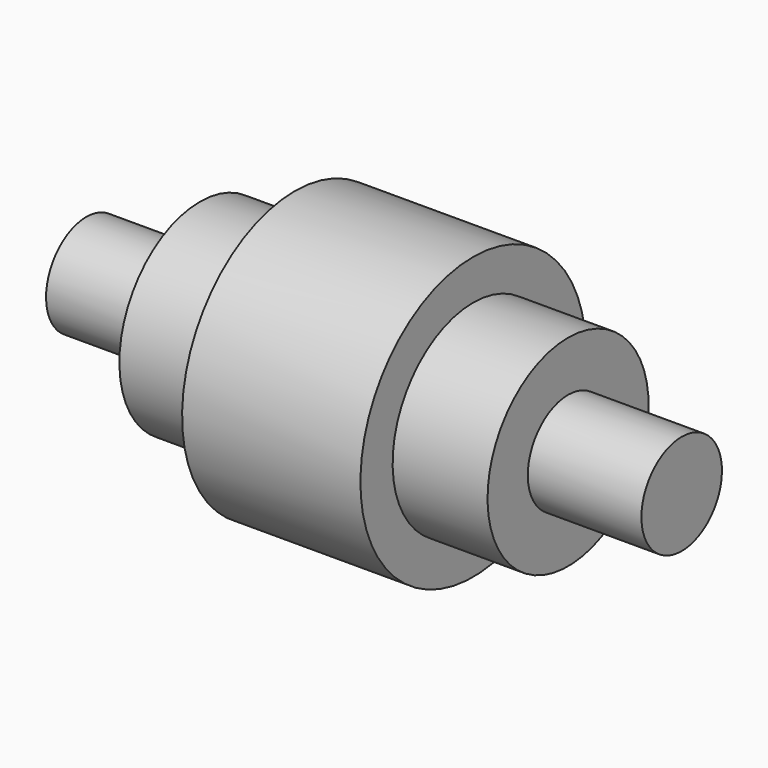
from build123d import *

# Parameters (mm, degrees)
F0_W = 22.9998864233
F0_H = 10.1898247376


with BuildPart() as f1:
    # F0 (on Front) → F1 (revolve)
    with BuildSketch(Plane.XZ):
        Polygon((-40.3225906193, 0), (-37.2656472027, 0), (-37.2656472027, 10.1898247376), (-60.2655336261, 10.1898247376), (-60.2655336261, 0), align=None)
        Polygon((-37.2656472027, 0), (-18.0505476892, 0), (-18.0505476892, 20.3796494752), (-37.2656472027, 20.3796494752), (-37.2656472027, 10.1898247376), align=None)
        Polygon((-18.0505476892, 0), (0, 0), (0, 28.5315085202), (-18.0505476892, 28.5315085202), (-18.0505476892, 20.3796494752), align=None)
        Polygon((0, 28.5315085202), (0, 0), (18.0505476892, 0), (18.0505476892, 20.3796494752), (18.0505476892, 28.5315085202), align=None)
        Polygon((18.0505476892, 20.3796494752), (18.0505476892, 0), (37.2656472027, 0), (37.2656472027, 10.1898247376), (37.2656472027, 20.3796494752), align=None)
        with Locations((48.7655904144, 5.0949123688)):
            Rectangle(F0_W, F0_H)
    revolve(axis=Axis((3.493655473, 0, 0), (1, 0, 0)))


solid = f1.part
